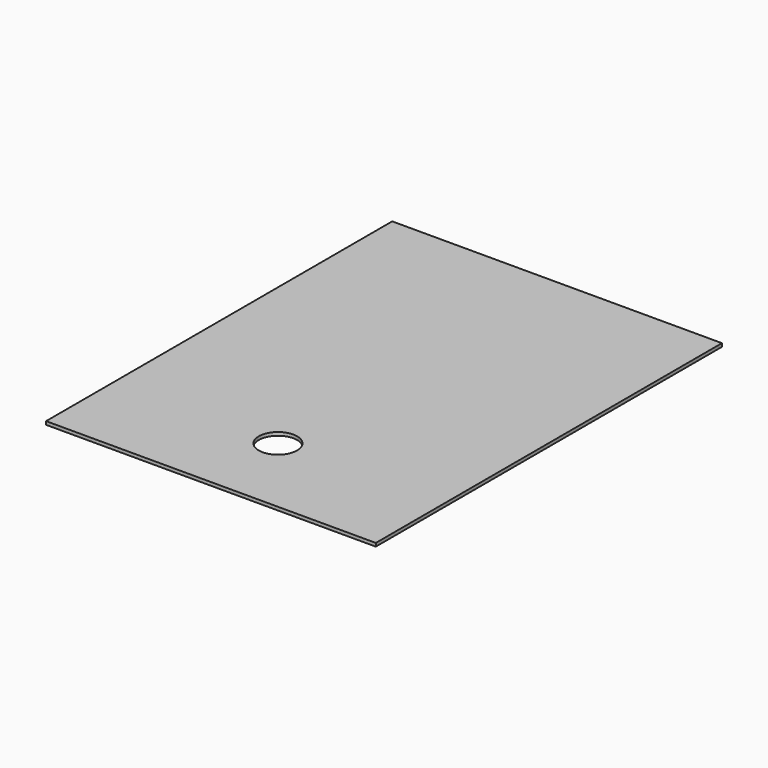
from build123d import *

# Parameters (mm, degrees)
SKETCH_W      = 600.075
SKETCH_H      = 787.4
SKETCH_R      = 34.925
EXTRUDE_DEPTH = 5.9944


with BuildPart() as part:
    # Sketch → Extrude (new body)
    with BuildSketch(Plane.XY):
        with Locations((300.0375, -393.7)):
            Rectangle(SKETCH_W, SKETCH_H)
        with Locations((300.0502, -635)):
            Circle(SKETCH_R, mode=Mode.SUBTRACT)
    extrude(amount=EXTRUDE_DEPTH)


solid = part.part
